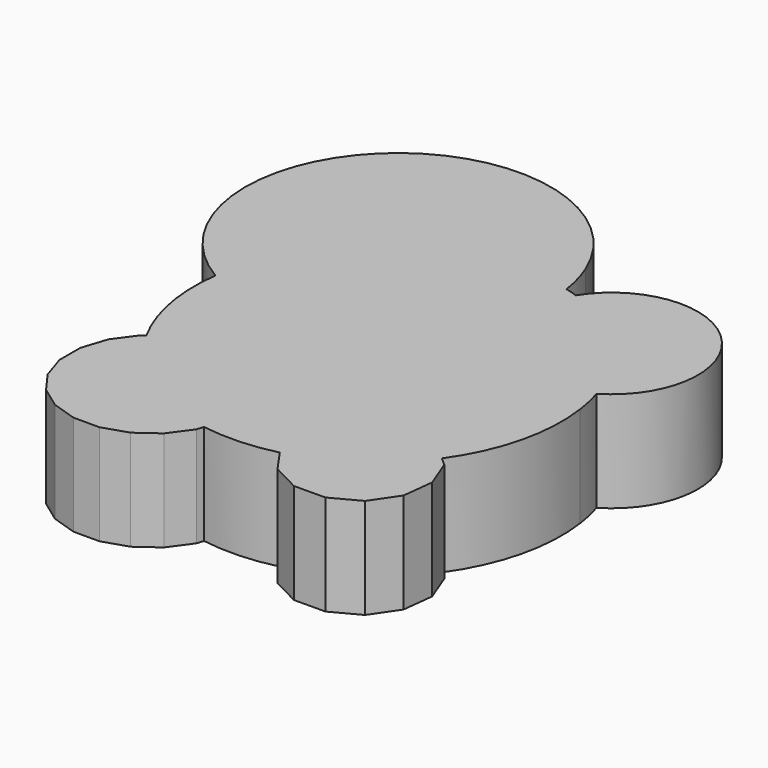
from build123d import *

# Parameters (mm, degrees)
F1_DEPTH = 24.16093


with BuildPart() as f1:
    # F0 (on Top) → F1 (new body)
    with BuildSketch(Plane.XY):
        with BuildLine():
            ThreePointArc((11.203076, 42.713393), (10.292072, 47.134359), (8.845822, 51.410249))
            ThreePointArc((8.845822, 51.410249), (6.130909, 47.880807), (3.98759, 43.977744))
            ThreePointArc((3.98759, 43.977744), (7.621596, 43.49545), (11.203076, 42.713393))
        make_face()
        with BuildLine():
            ThreePointArc((-6.668297, 43.651766), (-36.025905, 53.708341), (-37.858692, 22.730208))
            ThreePointArc((-37.858692, 22.730208), (-41.679226, 14.587151), (-43.770431, 5.838854))
            ThreePointArc((-43.770431, 5.838854), (-43.402078, -8.136493), (-38.683462, -21.296305))
            Line((-38.683462, -21.296305), (-39.571719, -21.941662))
            Line((-39.571719, -21.941662), (-43.264751, -27.024685))
            Line((-43.264751, -27.024685), (-45.206293, -33.000137))
            Line((-45.206293, -33.000137), (-45.206293, -39.283099))
            Line((-45.206293, -39.283099), (-43.264751, -45.258551))
            Line((-43.264751, -45.258551), (-39.571719, -50.341575))
            Line((-39.571719, -50.341575), (-34.488695, -54.034607))
            Line((-34.488695, -54.034607), (-28.513243, -55.976149))
            Line((-28.513243, -55.976149), (-22.230281, -55.976149))
            Line((-22.230281, -55.976149), (-16.254829, -54.034607))
            Line((-16.254829, -54.034607), (-11.171806, -50.341575))
            Line((-11.171806, -50.341575), (-7.478773, -45.258551))
            Line((-7.478773, -45.258551), (-6.942785, -43.608951))
            ThreePointArc((-6.942785, -43.608951), (1.906294, -44.116991), (10.678567, -42.847533))
            Line((10.678567, -42.847533), (14.511207, -48.336682))
            Line((14.511207, -48.336682), (21.229996, -51.817011))
            Line((21.229996, -51.817011), (28.796579, -51.776312))
            Line((28.796579, -51.776312), (35.477541, -48.223909))
            Line((35.477541, -48.223909), (39.742355, -41.973614))
            Line((39.742355, -41.973614), (40.614004, -34.457295))
            Line((40.614004, -34.457295), (37.892803, -27.39685))
            Line((37.892803, -27.39685), (35.9273, -25.674345))
            ThreePointArc((35.9273, -25.674345), (42.891936, -10.498797), (43.723869, 6.177873))
            ThreePointArc((43.723869, 6.177873), (43.098551, 9.615495), (42.2034, 12.992917))
            ThreePointArc((42.2034, 12.992917), (46.479629, 45.235869), (14.132575, 41.83555))
            ThreePointArc((14.132575, 41.83555), (12.675427, 42.299839), (11.203076, 42.713393))
            ThreePointArc((11.203076, 42.713393), (7.621596, 43.49545), (3.98759, 43.977744))
            ThreePointArc((3.98759, 43.977744), (-1.350227, 44.13751), (-6.668297, 43.651766))
        make_face()
        with BuildLine():
            ThreePointArc((-43.770431, 5.838854), (-41.679226, 14.587151), (-37.858692, 22.730208))
            ThreePointArc((-37.858692, 22.730208), (-36.025905, 53.708341), (-6.668297, 43.651766))
            ThreePointArc((-6.668297, 43.651766), (-1.350227, 44.13751), (3.98759, 43.977744))
            ThreePointArc((3.98759, 43.977744), (6.130909, 47.880807), (8.845822, 51.410249))
            ThreePointArc((8.845822, 51.410249), (-49.222835, 65.294925), (-43.770431, 5.838854))
        make_face()
    extrude(amount=F1_DEPTH)


solid = f1.part
